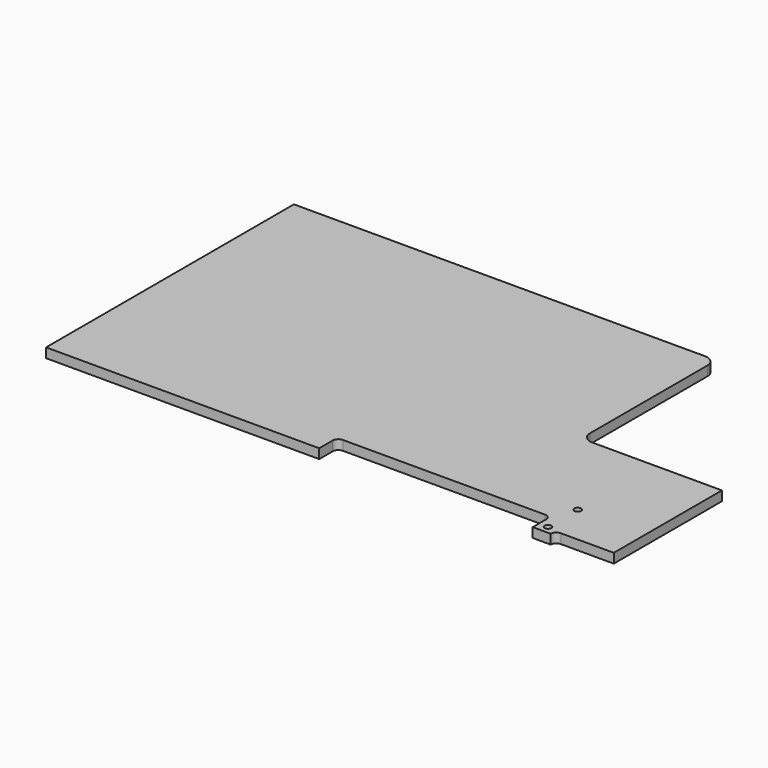
from build123d import *

# Parameters (mm, degrees)
PAD_DEPTH     = 1.7
SKETCH001_W   = 37.9
SKETCH001_H   = 4
SKETCH001_W_2 = 10.4
SKETCH001_H_2 = 1
POCKET_DEPTH  = 1.701
FILLET_R      = 1
FILLET002_R   = 2
FILLET003_R   = 0.99
SKETCH002_R   = 0.6
HOLE_DEPTH    = 25


with BuildPart() as part:
    # Sketch → Pad (new body)
    with BuildSketch(Plane.XY):
        Polygon((0, 0), (100, 0), (100, 25), (75, 25), (75, 55), (0, 55), align=None)
    extrude(amount=-PAD_DEPTH)

    # Sketch001 → Pocket (cut, through all)
    with BuildSketch(Plane.XY):
        with Locations((67.45, 2)):
            Rectangle(SKETCH001_W, SKETCH001_H)
        with Locations((94.8, 0.5)):
            Rectangle(SKETCH001_W_2, SKETCH001_H_2)
    extrude(amount=-POCKET_DEPTH, mode=Mode.SUBTRACT)

    # Fillet
    fillet_edges = [part.edges().sort_by_distance(p)[0] for p in [
        (48.5, 4, -0.85),
        (86.4, 4, -0.85),
    ]]
    fillet(fillet_edges, radius=FILLET_R)

    # Fillet002
    fillet002_edges = [part.edges().sort_by_distance(p)[0] for p in [
        (75, 55, -0.85),
        (75, 25, -0.85),
    ]]
    fillet(fillet002_edges, radius=FILLET002_R)

    # Fillet003
    fillet003_edges = [part.edges().sort_by_distance(p)[0] for p in [
        (89.6, 1, -0.85),
    ]]
    fillet(fillet003_edges, radius=FILLET003_R)

    # Sketch002 → Hole (cut)
    with BuildSketch(Plane.XY):
        with Locations((88, 1.4)):
            Circle(SKETCH002_R)
        with Locations((88, 8)):
            Circle(SKETCH002_R)
    extrude(amount=-HOLE_DEPTH, mode=Mode.SUBTRACT)


solid = part.part
